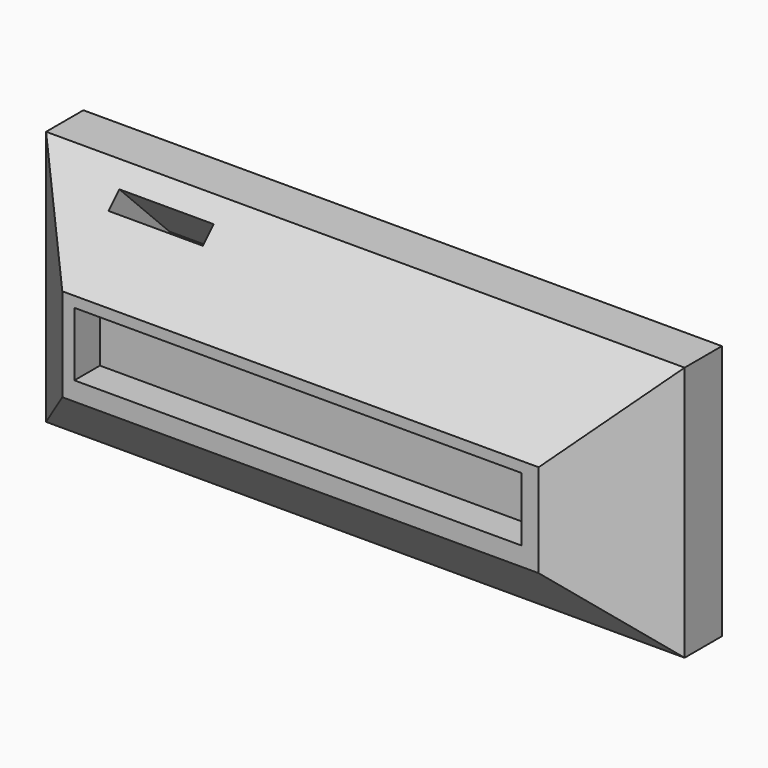
from build123d import *

# Parameters (mm, degrees)
F0_W     = 100
F0_H     = 40
F1_DEPTH = 20
F2_SIZE  = 12.7
F3_W     = 14.7754922509
F3_H     = 3
F4_DEPTH = 25
F5_W     = 70
F5_H     = 10
F6_DEPTH = 5


with BuildPart() as f1:
    # F0 (on Front) → F1 (new body)
    with BuildSketch(Plane.XZ):
        with Locations((-20.0241699815, -7.6543013752)):
            Rectangle(F0_W, F0_H)
    extrude(amount=F1_DEPTH)

    # F2
    f2_edges = [f1.edges().sort_by_distance(p)[0] for p in [
        (-70.02417, -20, -7.654301),
        (29.97583, -20, -7.654301),
        (-20.02417, -20, -27.654301),
        (-20.02417, -20, 12.345699),
    ]]
    chamfer(f2_edges, length=F2_SIZE)

    # F3 (on face) → F4 (cut)
    with BuildSketch(Plane(origin=(0, -9.8228493124, 9.8228493124), x_dir=(1, 0, 0), z_dir=(0, -0.7071067812, 0.7071067812))):
        with Locations((-49.1398386657, -1.5)):
            Rectangle(F3_W, F3_H)
    extrude(amount=-F4_DEPTH, mode=Mode.SUBTRACT)

    # F5 (on face) → F6 (cut)
    with BuildSketch(Plane.XZ.offset(20)):
        with Locations((-20.430685021, -7.0188848879)):
            Rectangle(F5_W, F5_H)
    extrude(amount=-F6_DEPTH, mode=Mode.SUBTRACT)


solid = f1.part
